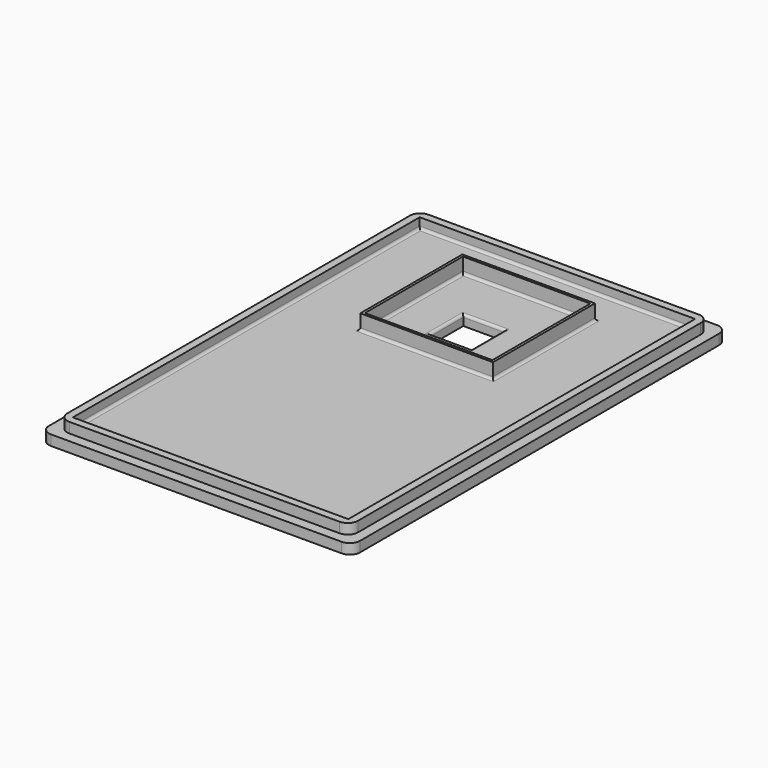
from build123d import *

# Parameters (mm, degrees)
F0_W     = 54
F0_H     = 85
F1_DEPTH = 2
F2_DEPTH = 2
F3_W     = 26
F3_H     = 25
F3_W_2   = 25
F3_H_2   = 24
F4_DEPTH = 3
F3_W_3   = 8.1
F3_H_3   = 4.05
F5_DEPTH = 2
F6_R     = 0.5


with BuildPart() as f1:
    # F0 (on Top) → F1 (new body)
    with BuildSketch(Plane.XY):
        with BuildLine():
            Line((-30.5, 44), (-30.5, 0))
            Line((-30.5, 0), (-30.5, -44))
            ThreePointArc((-30.5, -44), (-29.9142135624, -45.4142135624), (-28.5, -46))
            Line((-28.5, -46), (28.5, -46))
            ThreePointArc((28.5, -46), (29.9142135624, -45.4142135624), (30.5, -44))
            Line((30.5, -44), (30.5, 0))
            Line((30.5, 0), (30.5, 44))
            ThreePointArc((30.5, 44), (29.9142135624, 45.4142135624), (28.5, 46))
            Line((28.5, 46), (-28.5, 46))
            ThreePointArc((-28.5, 46), (-29.9142135624, 45.4142135624), (-30.5, 44))
        make_face()
        with BuildLine():
            Line((-28.5, -42), (-28.5, 0))
            Line((-28.5, 0), (-28.5, 42))
            ThreePointArc((-28.5, 42), (-27.9142135624, 43.4142135624), (-26.5, 44))
            Line((-26.5, 44), (26.5, 44))
            ThreePointArc((26.5, 44), (27.9142135624, 43.4142135624), (28.5, 42))
            Line((28.5, 42), (28.5, 0))
            Line((28.5, 0), (28.5, -42))
            ThreePointArc((28.5, -42), (27.9142135624, -43.4142135624), (26.5, -44))
            Line((26.5, -44), (-26.5, -44))
            ThreePointArc((-26.5, -44), (-27.9142135624, -43.4142135624), (-28.5, -42))
        make_face(mode=Mode.SUBTRACT)
        with BuildLine():
            Line((-28.5, 42), (-28.5, 0))
            Line((-28.5, 0), (-28.5, -42))
            ThreePointArc((-28.5, -42), (-27.9142135624, -43.4142135624), (-26.5, -44))
            Line((-26.5, -44), (26.5, -44))
            ThreePointArc((26.5, -44), (27.9142135624, -43.4142135624), (28.5, -42))
            Line((28.5, -42), (28.5, 0))
            Line((28.5, 0), (28.5, 42))
            ThreePointArc((28.5, 42), (27.9142135624, 43.4142135624), (26.5, 44))
            Line((26.5, 44), (-26.5, 44))
            ThreePointArc((-26.5, 44), (-27.9142135624, 43.4142135624), (-28.5, 42))
        make_face()
        Rectangle(F0_W, F0_H, mode=Mode.SUBTRACT)
        Rectangle(F0_W, F0_H)
    extrude(amount=-F1_DEPTH)

    # F0 (on Top) → F2 (join)
    with BuildSketch(Plane.XY):
        with BuildLine():
            Line((-28.5, 42), (-28.5, 0))
            Line((-28.5, 0), (-28.5, -42))
            ThreePointArc((-28.5, -42), (-27.9142135624, -43.4142135624), (-26.5, -44))
            Line((-26.5, -44), (26.5, -44))
            ThreePointArc((26.5, -44), (27.9142135624, -43.4142135624), (28.5, -42))
            Line((28.5, -42), (28.5, 0))
            Line((28.5, 0), (28.5, 42))
            ThreePointArc((28.5, 42), (27.9142135624, 43.4142135624), (26.5, 44))
            Line((26.5, 44), (-26.5, 44))
            ThreePointArc((-26.5, 44), (-27.9142135624, 43.4142135624), (-28.5, 42))
        make_face()
        Rectangle(F0_W, F0_H, mode=Mode.SUBTRACT)
    extrude(amount=F2_DEPTH)

    # F3 (on Top) → F4 (join)
    with BuildSketch(Plane.XY):
        with Locations((0, 22.95)):
            Rectangle(F3_W, F3_H)
        with Locations((0, 22.95)):
            Rectangle(F3_W_2, F3_H_2, mode=Mode.SUBTRACT)
    extrude(amount=F4_DEPTH)

    # F3 (on Top) → F5 (cut, through all)
    with BuildSketch(Plane.XY):
        with Locations((0, 18.425)):
            Rectangle(F3_W_3, F3_H_3)
        with Locations((0, 22.475)):
            Rectangle(F3_W_3, F3_H_3)
    extrude(amount=-F5_DEPTH, mode=Mode.SUBTRACT)

    # F6
    f6_edges = [f1.edges().sort_by_distance(p)[0] for p in [
        (-12.5, 22.95, 0),
        (0, 10.95, 0),
        (0, 34.95, 0),
        (12.5, 22.95, 0),
        (0, 16.4, 0),
        (4.05, 20.45, 0),
        (0, 24.5, 0),
        (-4.05, 20.45, 0),
        (-27, 0, 0),
        (0, -42.5, 0),
        (0, 42.5, 0),
        (27, 0, 0),
        (0, 35.45, 0),
        (-13, 22.95, 0),
        (0, 10.45, 0),
        (13, 22.95, 0),
    ]]
    fillet(f6_edges, radius=F6_R)


solid = f1.part
